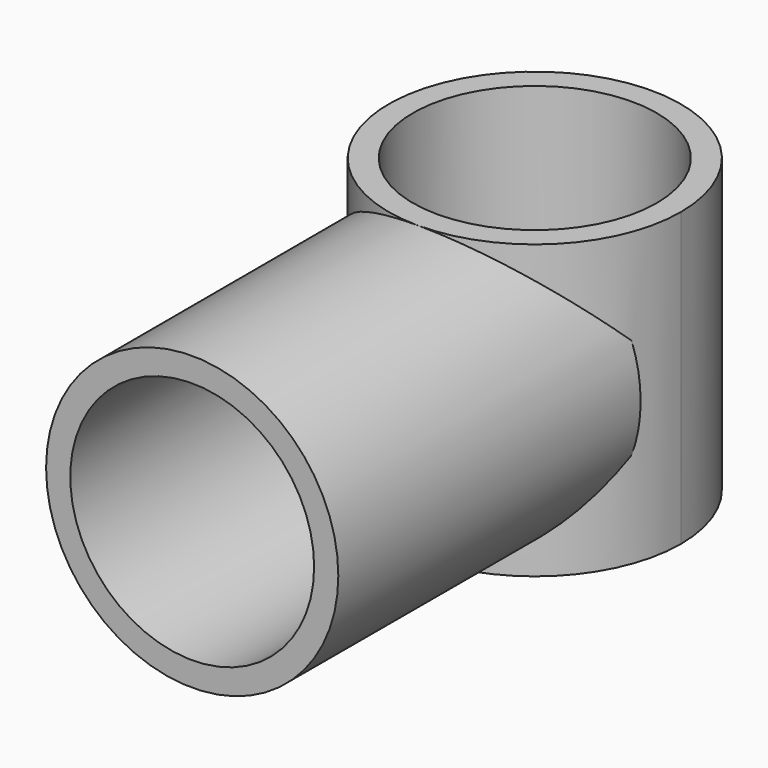
from build123d import *

# Parameters (mm, degrees)
F0_R          = 29
F0_R_2        = 24.2
F1_DEPTH      = 75
F2_R          = 29
F2_R_2        = 24.2
F3_DEPTH      = 29
F3_DEPTH_BACK = 29
F4_R          = 24.2
F5_DEPTH      = 58.001


with BuildPart() as f1:
    # F0 (on Front) → F1 (new body)
    with BuildSketch(Plane.XZ):
        Circle(F0_R)
        Circle(F0_R_2, mode=Mode.SUBTRACT)
    extrude(amount=F1_DEPTH)

    # F2 (on Top) → F3 (join, two sides)
    with BuildSketch(Plane.XY) as f3_sk:
        with Locations((0, 10)):
            Circle(F2_R)
        with Locations((0, 10)):
            Circle(F2_R_2, mode=Mode.SUBTRACT)
    extrude(amount=F3_DEPTH)
    extrude(f3_sk.sketch, amount=-F3_DEPTH_BACK)

    # F4 (on face) → F5 (cut, through all)
    with BuildSketch(Plane.XY.offset(29)):
        with Locations((0, 10)):
            Circle(F4_R)
    extrude(amount=-F5_DEPTH, mode=Mode.SUBTRACT)


solid = f1.part
